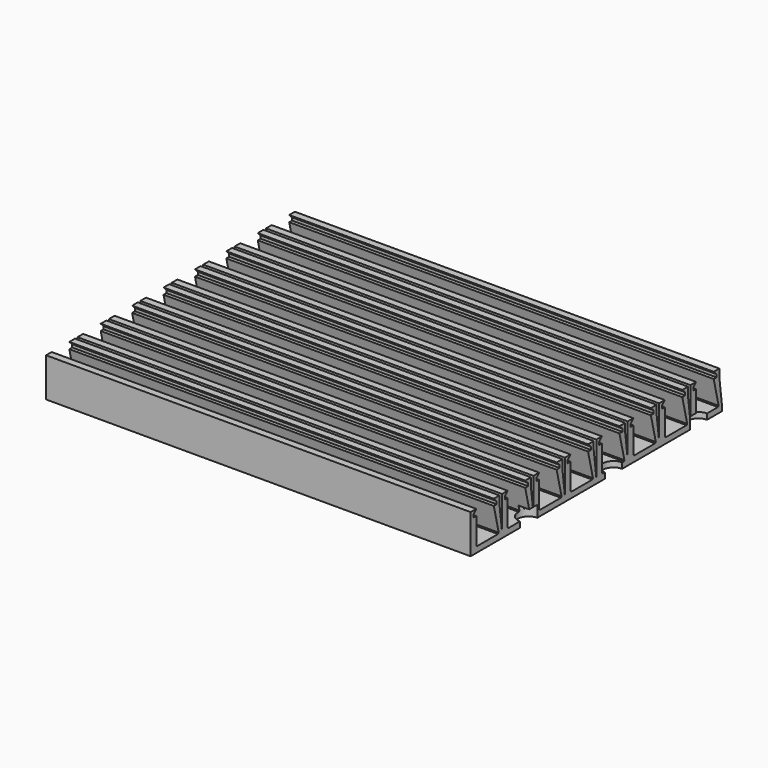
from build123d import *

# Parameters (mm, degrees)
SKETCH_W            = 120
SKETCH_H            = 88.8
PAD_DEPTH           = 11
POCKET_DEPTH        = 120
SKETCH006_R         = 3.05
HOLE001_DEPTH       = 3.25
SKETCH002_R         = 1.7
HOLE_DEPTH          = 1.6
POCKET001_DEPTH     = 0.8
LINEARPATTERN_COUNT = 8
LINEARPATTERN_PITCH = 11.1


with BuildPart() as part:
    # Sketch → Pad (new body)
    with BuildSketch(Plane.XY):
        with Locations((60, 44.4)):
            Rectangle(SKETCH_W, SKETCH_H)
    extrude(amount=PAD_DEPTH)

    # Sketch001 → Pocket (cut)
    with BuildSketch(Plane.YZ):
        Polygon((9.2, 9.2), (9.2, 10), (8.2, 11), (8.2, 16), (2, 16), (2, 11), (1, 10), (1, 9.2), (2, 9.2), (2, 1.9), (2.3, 1.6), (9.7, 1.6), (9.942553, 1.842553), (8.2, 9.2), align=None)
        Polygon((10.2, 8.744918), (10.2, 16), (11.1, 16), (11.1, 1.6), align=None)
    pocket = extrude(amount=POCKET_DEPTH, mode=Mode.SUBTRACT)

    # Sketch006 → Hole001 (cut)
    with BuildSketch(Plane.XY):
        with Locations((15, 35.5)):
            Circle(SKETCH006_R)
        with Locations((45, 35.5)):
            Circle(SKETCH006_R)
        with Locations((75, 35.5)):
            Circle(SKETCH006_R)
        with Locations((15, 65.5)):
            Circle(SKETCH006_R)
        with Locations((45, 65.5)):
            Circle(SKETCH006_R)
        with Locations((75, 65.5)):
            Circle(SKETCH006_R)
        with Locations((30, 20.5)):
            Circle(SKETCH006_R)
        with Locations((60, 20.5)):
            Circle(SKETCH006_R)
        with Locations((60, 50.5)):
            Circle(SKETCH006_R)
        with Locations((30, 50.5)):
            Circle(SKETCH006_R)
        with Locations((90, 50.5)):
            Circle(SKETCH006_R)
        with Locations((105, 65.5)):
            Circle(SKETCH006_R)
        with Locations((90, 20.5)):
            Circle(SKETCH006_R)
        with Locations((105, 35.5)):
            Circle(SKETCH006_R)
        with Locations((30, 80.5)):
            Circle(SKETCH006_R)
        with Locations((60, 80.5)):
            Circle(SKETCH006_R)
        with Locations((90, 80.5)):
            Circle(SKETCH006_R)
        with Locations((15, 95.5)):
            Circle(SKETCH006_R)
        with Locations((45, 95.5)):
            Circle(SKETCH006_R)
        with Locations((75, 95.5)):
            Circle(SKETCH006_R)
        with Locations((105, 95.5)):
            Circle(SKETCH006_R)
        with Locations((30, 110.5)):
            Circle(SKETCH006_R)
        with Locations((60, 110.5)):
            Circle(SKETCH006_R)
        with Locations((90, 110.5)):
            Circle(SKETCH006_R)
        with Locations((15, 125.5)):
            Circle(SKETCH006_R)
        with Locations((45, 125.5)):
            Circle(SKETCH006_R)
        with Locations((75, 125.5)):
            Circle(SKETCH006_R)
        with Locations((105, 125.5)):
            Circle(SKETCH006_R)
        with Locations((15, 155.5)):
            Circle(SKETCH006_R)
        with Locations((45, 155.5)):
            Circle(SKETCH006_R)
        with Locations((75, 155.5)):
            Circle(SKETCH006_R)
        with Locations((60, 140.5)):
            Circle(SKETCH006_R)
        with Locations((30, 140.5)):
            Circle(SKETCH006_R)
        with Locations((90, 140.5)):
            Circle(SKETCH006_R)
        with Locations((105, 155.5)):
            Circle(SKETCH006_R)
        with Locations((30, 170.5)):
            Circle(SKETCH006_R)
        with Locations((60, 170.5)):
            Circle(SKETCH006_R)
        with Locations((90, 170.5)):
            Circle(SKETCH006_R)
        with Locations((15, 185.5)):
            Circle(SKETCH006_R)
        with Locations((45, 185.5)):
            Circle(SKETCH006_R)
        with Locations((75, 185.5)):
            Circle(SKETCH006_R)
        with Locations((105, 185.5)):
            Circle(SKETCH006_R)
        with Locations((30, 200.5)):
            Circle(SKETCH006_R)
        with Locations((60, 200.5)):
            Circle(SKETCH006_R)
        with Locations((90, 200.5)):
            Circle(SKETCH006_R)
        with Locations((15, 215.5)):
            Circle(SKETCH006_R)
        with Locations((45, 215.5)):
            Circle(SKETCH006_R)
        with Locations((75, 215.5)):
            Circle(SKETCH006_R)
        with Locations((105, 215.5)):
            Circle(SKETCH006_R)
        with Locations((120, 50.5)):
            Circle(SKETCH006_R)
        with Locations((120, 20.5)):
            Circle(SKETCH006_R)
        with Locations((120, 80.5)):
            Circle(SKETCH006_R)
        with Locations((120, 110.5)):
            Circle(SKETCH006_R)
        with Locations((120, 140.5)):
            Circle(SKETCH006_R)
        with Locations((120, 170.5)):
            Circle(SKETCH006_R)
        with Locations((120, 200.5)):
            Circle(SKETCH006_R)
        with Locations((0, 50.5)):
            Circle(SKETCH006_R)
        with Locations((0, 20.5)):
            Circle(SKETCH006_R)
        with Locations((0, 80.5)):
            Circle(SKETCH006_R)
        with Locations((0, 110.5)):
            Circle(SKETCH006_R)
        with Locations((0, 140.5)):
            Circle(SKETCH006_R)
        with Locations((0, 170.5)):
            Circle(SKETCH006_R)
        with Locations((0, 200.5)):
            Circle(SKETCH006_R)
    extrude(amount=HOLE001_DEPTH, mode=Mode.SUBTRACT)

    # Sketch002 → Hole (cut)
    with BuildSketch(Plane.XY):
        with Locations((15, 5.5)):
            Circle(SKETCH002_R)
        with Locations((45, 5.5)):
            Circle(SKETCH002_R)
        with Locations((75, 5.5)):
            Circle(SKETCH002_R)
        with Locations((15, 95.5)):
            Circle(SKETCH002_R)
        with Locations((105, 5.5)):
            Circle(SKETCH002_R)
        with Locations((105, 95.5)):
            Circle(SKETCH002_R)
    extrude(amount=HOLE_DEPTH, mode=Mode.SUBTRACT)

    # Sketch003 → Pocket001 (cut)
    with BuildSketch(Plane.XY.offset(1.6)):
        Polygon((46.833333, 2.324574), (48.666667, 5.5), (46.833333, 8.675426), (43.166667, 8.675426), (41.333333, 5.5), (43.166667, 2.324574), align=None)
        Polygon((76.833333, 2.324574), (78.666667, 5.5), (76.833333, 8.675426), (73.166667, 8.675426), (71.333333, 5.5), (73.166667, 2.324574), align=None)
    extrude(amount=-POCKET001_DEPTH, mode=Mode.SUBTRACT)

    # LinearPattern: Pocket ×8
    with Locations(*[(0, i * LINEARPATTERN_PITCH, 0) for i in range(1, LINEARPATTERN_COUNT)]):
        add(pocket, mode=Mode.SUBTRACT)


solid = part.part
